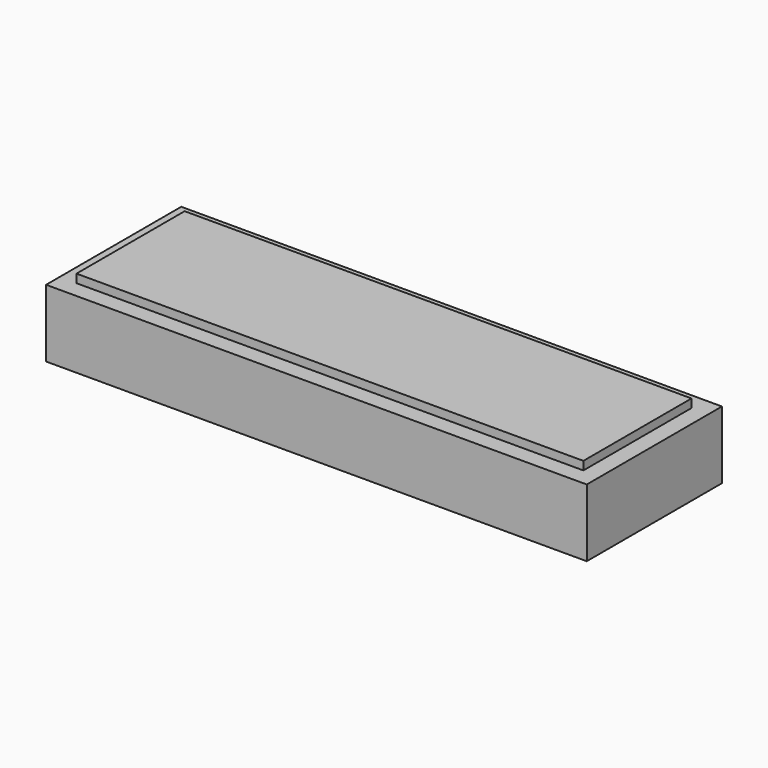
from build123d import *

# Parameters (mm, degrees)
F0_W     = 203.2
F0_H     = 63.5
F1_DEPTH = 25.4
F2_R     = 9.525
F3_DEPTH = 12.7
F4_W     = 190.5
F4_H     = 50.8
F5_DEPTH = 3.175


with BuildPart() as f1:
    # F0 (on Top) → F1 (new body)
    with BuildSketch(Plane.XY):
        Rectangle(F0_W, F0_H)
    extrude(amount=F1_DEPTH)

    # F2 (on face) → F3 (cut)
    with BuildSketch(Plane(origin=(0, 0, 0), x_dir=(1, 0, 0), z_dir=(0, 0, -1))):
        with Locations((-81.4832, 0)):
            Circle(F2_R)
        with Locations((71.3232, 0)):
            Circle(F2_R)
    extrude(amount=-F3_DEPTH, mode=Mode.SUBTRACT)

    # F4 (on face) → F5 (join)
    with BuildSketch(Plane.XY.offset(25.4)):
        Rectangle(F4_W, F4_H)
    extrude(amount=F5_DEPTH)


solid = f1.part
